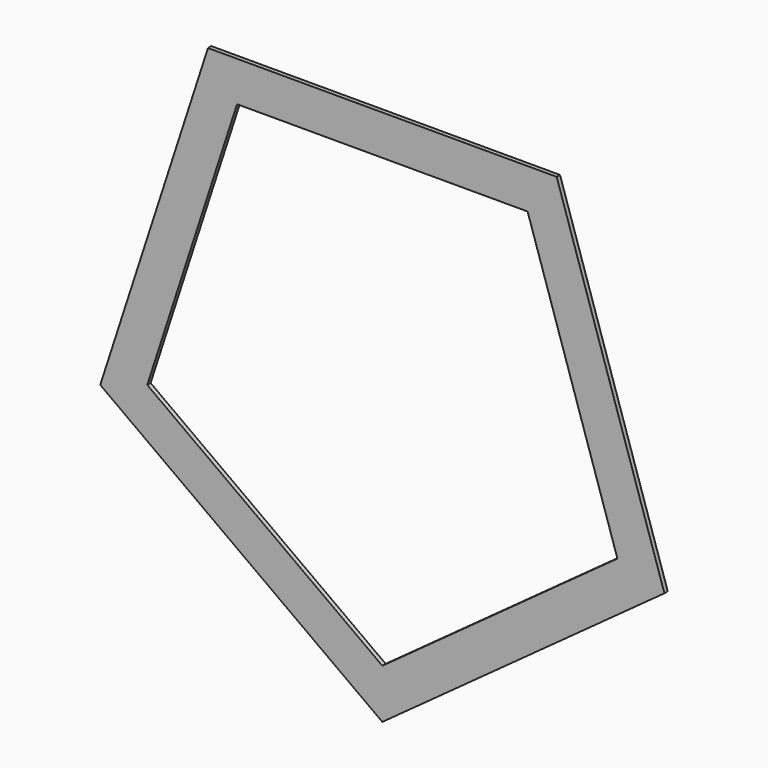
from build123d import *

# Parameters (mm, degrees)
F1_DEPTH = 2.38125


with BuildPart() as f1:
    # F0 (on Front) → F1 (new body, symmetric)
    with BuildSketch(Plane.XZ):
        Polygon((198.071047, 272.621408), (-198.071047, 272.621408), (-320.485686, -104.132112), (0, -336.978592), (320.485686, -104.132112), align=None)
        Polygon((-267.071405, -86.77676), (-165.059206, 227.184507), (165.059206, 227.184507), (267.071405, -86.77676), (0, -280.815493), align=None, mode=Mode.SUBTRACT)
    extrude(amount=F1_DEPTH, both=True)


solid = f1.part
